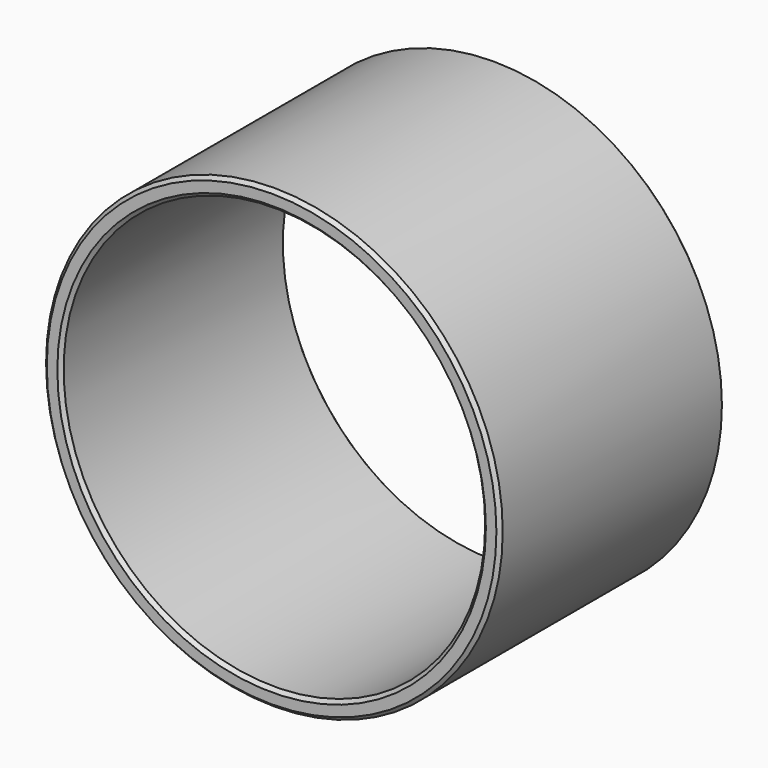
from build123d import *

# Parameters (mm, degrees)
F0_R     = 32.5
F0_R_2   = 30
F1_DEPTH = 20
F2_SIZE  = 0.5


with BuildPart() as f1:
    # F0 (on Front) → F1 (new body, symmetric)
    with BuildSketch(Plane.XZ):
        Circle(F0_R)
        Circle(F0_R_2, mode=Mode.SUBTRACT)
    extrude(amount=F1_DEPTH, both=True)

    # F2
    f2_edges = [f1.edges().sort_by_distance(p)[0] for p in [
        (-30, -20, 0),
        (30, 0, 0),
        (-30, 20, 0),
        (-32.5, 20, 0),
        (32.5, 0, 0),
        (-32.5, -20, 0),
    ]]
    chamfer(f2_edges, length=F2_SIZE)


solid = f1.part
